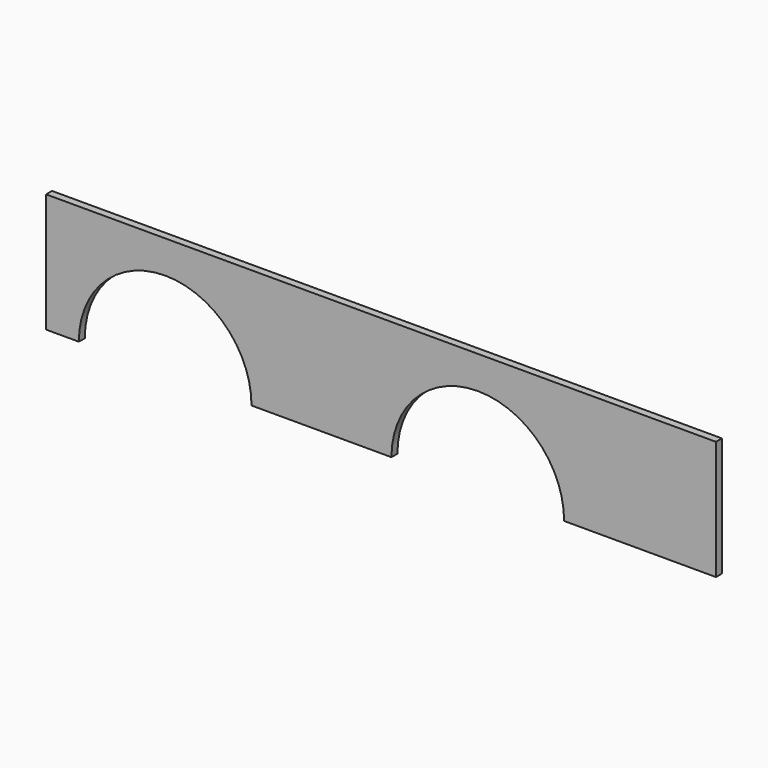
from build123d import *

# Parameters (mm, degrees)
F1_DEPTH = 5


with BuildPart() as f1:
    # F0 (on Front) → F1 (new body)
    with BuildSketch(Plane.XZ):
        with BuildLine():
            Line((0, 80), (0, 0))
            Line((0, 0), (22, 0))
            ThreePointArc((22, 0), (80, 58), (138, 0))
            Line((138, 0), (232, 0))
            ThreePointArc((232, 0), (290, 58), (348, 0))
            Line((348, 0), (450, 0))
            Line((450, 0), (450, 80))
            Line((450, 80), (0, 80))
        make_face()
    extrude(amount=F1_DEPTH)


solid = f1.part
